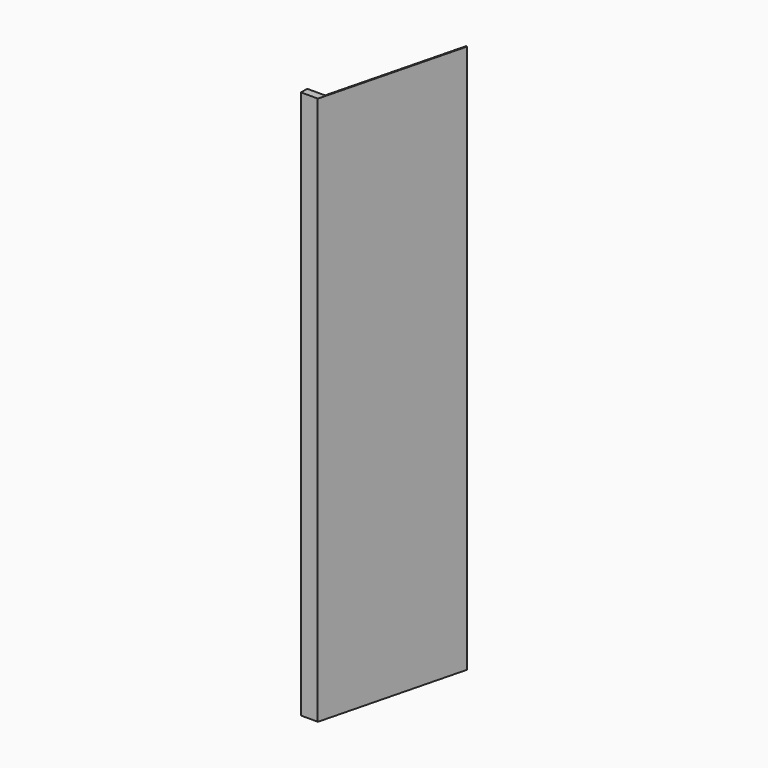
from build123d import *

# Parameters (mm, degrees)
F1_DEPTH = 1612.9
F2_DEPTH = 38.1
F3_DEPTH = 1612.9


with BuildPart() as f1:
    # F0 (on Top) → F1 (new body)
    with BuildSketch(Plane.XY):
        Polygon((-26.192827, 11.452037), (-26.192827, -11.452037), (20.374346, -11.452037), (26.192827, 11.452037), align=None)
    extrude(amount=F1_DEPTH)


with BuildPart() as f2:
    # F0 (on Top) → F2 (new body)
    with BuildSketch(Plane.XY):
        Polygon((-26.192827, 316.252037), (103.623289, 316.252037), (126.207173, 405.152037), (-26.192827, 405.152037), align=None)
    extrude(amount=F2_DEPTH)


with BuildPart() as f3:
    # F0 (on Top) → F3 (new body)
    with BuildSketch(Plane.XY):
        Polygon((26.192827, 11.452037), (20.374346, -11.452037), (23.451603, -12.233774), (129.284431, 404.3703), (126.207173, 405.152037), (103.623289, 316.252037), align=None)
    extrude(amount=F3_DEPTH)


solid = Compound([f1.part, f2.part, f3.part])
